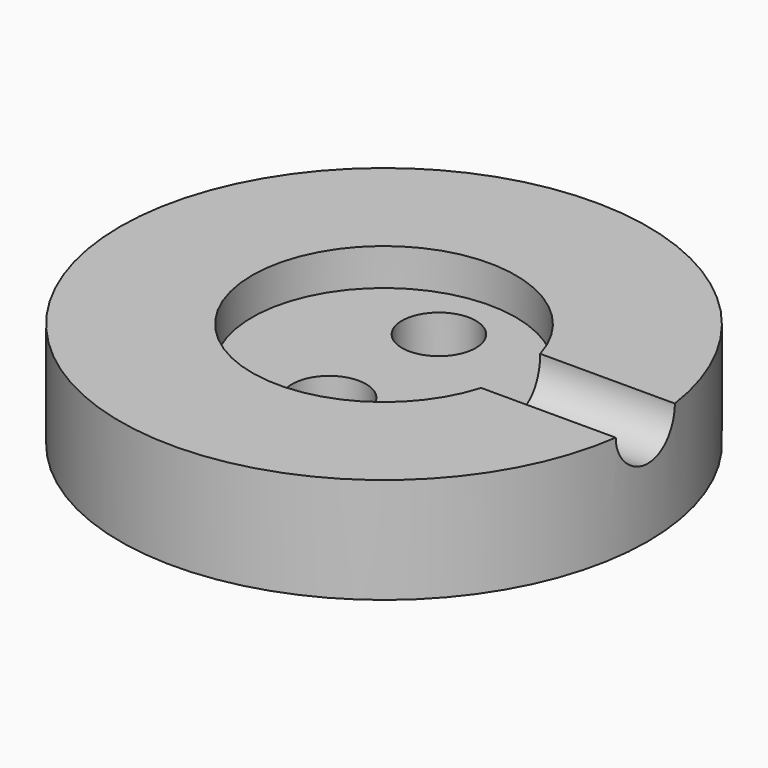
from build123d import *

# Parameters (mm, degrees)
F0_R     = 50
F1_DEPTH = 20
F2_R     = 25
F3_DEPTH = 7
F4_R     = 7
F5_DEPTH = 50.001
F6_R     = 7
F7_DEPTH = 20


with BuildPart() as f1:
    # F0 (on Top) → F1 (new body)
    with BuildSketch(Plane.XY):
        Circle(F0_R)
    extrude(amount=F1_DEPTH)

    # F2 (on face) → F3 (cut)
    with BuildSketch(Plane.XY.offset(20)):
        Circle(F2_R)
    extrude(amount=-F3_DEPTH, mode=Mode.SUBTRACT)

    # F4 (on Right) → F5 (cut, through all)
    with BuildSketch(Plane.YZ):
        with Locations((0, 20)):
            Circle(F4_R)
    extrude(amount=F5_DEPTH, mode=Mode.SUBTRACT)

    # F6 (on face) → F7 (cut)
    with BuildSketch(Plane.XY.offset(13)):
        with Locations((0, 13)):
            Circle(F6_R)
        with Locations((0, -13)):
            Circle(F6_R)
    extrude(amount=-F7_DEPTH, mode=Mode.SUBTRACT)


solid = f1.part
